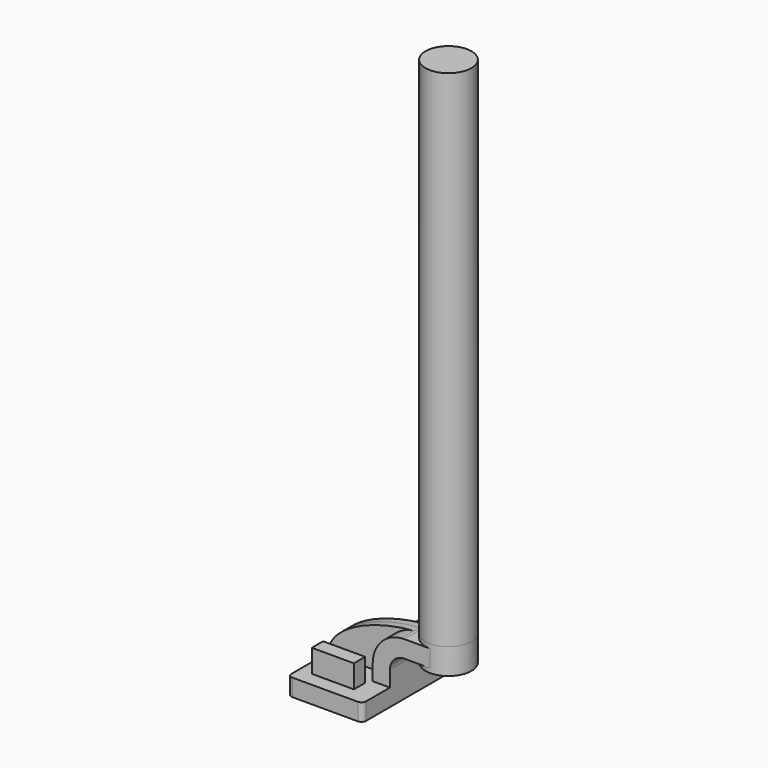
from build123d import *

# Parameters (mm, degrees)
F1_DEPTH = 63.5
F0_W     = 25.4
F0_H     = 19.05
F2_DEPTH = 25.4
F3_DEPTH = 7.9375
F5_R     = 5.08
F6_R     = 25.4
F7_DEPTH = 558.8
F8_W     = 46.5360675007
F8_H     = 15.6157277524
F9_DEPTH = 25.4


with BuildPart() as f1:
    # F0 (on Front) → F1 (new body, symmetric)
    with BuildSketch(Plane.XZ):
        Polygon((22.225, 9.525), (-41.275, 9.525), (-41.275, -9.525), (41.275, -9.525), (41.275, 9.525), align=None)
    extrude(amount=F1_DEPTH, both=True)

    # F0 (on Front) → F2 (join, symmetric)
    with BuildSketch(Plane.XZ):
        with BuildLine():
            Line((22.225, 27.0002), (22.225, 9.525))
            Line((22.225, 9.525), (41.275, 9.525))
            Line((41.275, 9.525), (41.275, 27.0002))
            ThreePointArc((41.275, 27.0002), (45.9246798487, 38.2255201513), (57.15, 42.8752))
            Line((57.15, 42.8752), (60.325, 42.8752))
            Line((60.325, 42.8752), (60.325, 61.9252))
            Line((60.325, 61.9252), (57.15, 61.9252))
            add(Edge.make_bspline(
                [(53.8854342407, 61.7722898912), (54.9842067368, 61.8365871986), (56.0728453275, 61.8876096574), (57.15, 61.9252)],
                knots=[108.5245810491, 108.5245810491, 108.5245810491, 108.5245810491, 111.5045361635, 111.5045361635, 111.5045361635, 111.5045361635], degree=3))
            ThreePointArc((53.8854342407, 61.7722898912), (31.3258777096, 50.5133948686), (22.225, 27.0002))
        make_face()
        with Locations((73.025, 52.4002)):
            Rectangle(F0_W, F0_H)
    extrude(amount=F2_DEPTH, both=True)

    # F0 (on Front) → F3 (join, symmetric)
    with BuildSketch(Plane.XZ):
        with BuildLine():
            add(Edge.make_bspline(
                [(-41.275, 9.525), (-39.5856284224, 39.4828766469), (13.870125209, 59.4306981306), (53.8854342407, 61.7722898912)],
                knots=[0, 0, 0, 0, 108.5245810491, 108.5245810491, 108.5245810491, 108.5245810491], degree=3))
            Line((-41.275, 9.525), (22.225, 9.525))
            Line((22.225, 9.525), (22.225, 27.0002))
            ThreePointArc((22.225, 27.0002), (31.3258777096, 50.5133948686), (53.8854342407, 61.7722898912))
        make_face()
    extrude(amount=F3_DEPTH, both=True)

    # F0 (on Front) → F4 (revolve)
    with BuildSketch(Plane.XZ):
        Polygon((85.725, 66.675), (85.725, 61.9252), (85.725, 42.8752), (85.725, 38.1), (111.125, 38.1), (111.125, 66.675), align=None)
    revolve(axis=Axis((85.725, 0, 52.3875), (0, 0, 1)))

    # F5
    f5_edges = [f1.edges().sort_by_distance(p)[0] for p in [
        (41.275, -63.5, 0),
        (-41.275, -63.5, 0),
        (41.275, 63.5, 0),
        (-41.275, 63.5, 0),
    ]]
    fillet(f5_edges, radius=F5_R)

    # F6 (on face) → F7 (join)
    with BuildSketch(Plane.XY.offset(66.675)):
        with Locations((85.725, 0)):
            Circle(F6_R)
    extrude(amount=F7_DEPTH)

    # F8 (on face) → F9 (join)
    with BuildSketch(Plane.XY.offset(9.525)):
        with Locations((-4.2162323371, -39.6982822567)):
            Rectangle(F8_W, F8_H)
    extrude(amount=F9_DEPTH)


solid = f1.part
